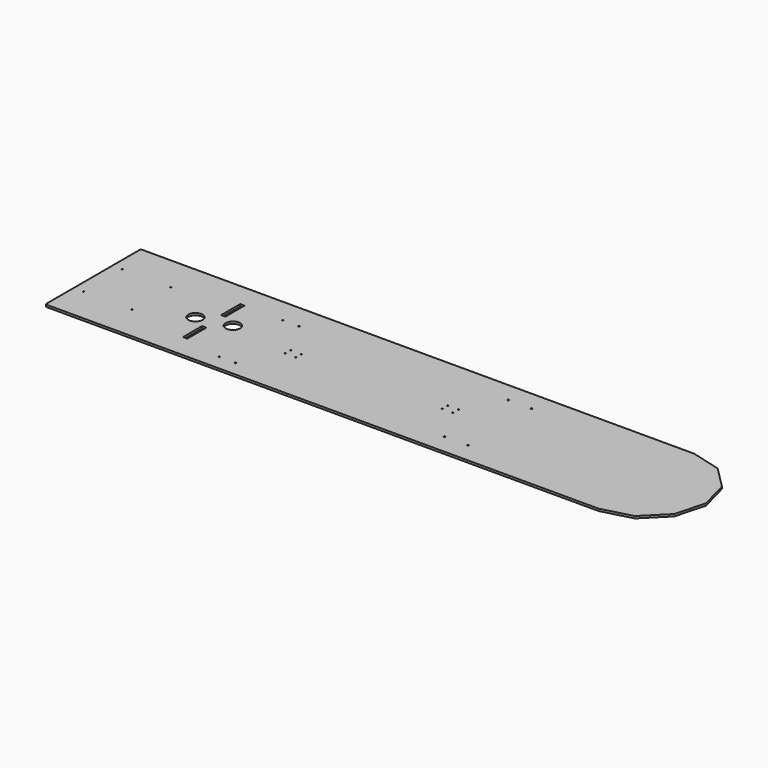
from build123d import *

# Parameters (mm, degrees)
F0_R     = 1.7272
F1_DEPTH = 6.35
F2_R     = 1.7272
F2_R_2   = 2.15265
F2_W     = 12.7
F2_H     = 71.12
F2_R_3   = 21.510772
F3_DEPTH = 6.35
F4_R     = 3.96875


with BuildPart() as f1:
    # F0 (on Top) → F1 (new body)
    with BuildSketch(Plane.XY):
        Polygon((88.9, 153.979317), (0, 177.8), (-1651, 177.8), (-1651, -177.8), (0, -177.8), (88.9, -153.979317), (153.979317, -88.9), (177.8, 0), (153.979317, 88.9), align=None)
        with Locations((-1621.63125, -72.23125)):
            Circle(F0_R, mode=Mode.SUBTRACT)
        with Locations((-1477.16875, -72.23125)):
            Circle(F0_R, mode=Mode.SUBTRACT)
        with Locations((-1621.63125, 72.23125)):
            Circle(F0_R, mode=Mode.SUBTRACT)
        with Locations((-1477.16875, 72.23125)):
            Circle(F0_R, mode=Mode.SUBTRACT)
    extrude(amount=F1_DEPTH)

    # F2 (on face) → F3 (cut, through all)
    with BuildSketch(Plane.XY.offset(6.35)):
        with Locations((-568.091641, -11.995942)):
            Circle(F2_R)
        with Locations((-599.841641, -11.995942)):
            Circle(F2_R)
        with Locations((-599.841641, 8.641558)):
            Circle(F2_R)
        with Locations((-568.091641, 8.641558)):
            Circle(F2_R)
        with Locations((-1028.355112, -1.491475)):
            Circle(F2_R)
        with Locations((-1028.355112, -22.128975)):
            Circle(F2_R)
        with Locations((-1060.105112, -22.128975)):
            Circle(F2_R)
        with Locations((-1060.105112, -1.491475)):
            Circle(F2_R)
        with Locations((-438.049884, 118.36762)):
            Circle(F2_R_2)
        with Locations((-507.785101, 118.367619)):
            Circle(F2_R_2)
        with Locations((-507.785101, -118.36762)):
            Circle(F2_R_2)
        with Locations((-438.049884, -118.36762)):
            Circle(F2_R_2)
        with Locations((-1169.146759, -131.855036)):
            Circle(F2_R_2)
        with Locations((-1120.411652, -131.855036)):
            Circle(F2_R_2)
        with Locations((-1169.146759, 104.880203)):
            Circle(F2_R_2)
        with Locations((-1120.411652, 104.880203)):
            Circle(F2_R_2)
        with Locations((-1290.943305, 71.12)):
            Rectangle(F2_W, F2_H)
        with Locations((-1290.943305, -71.12)):
            Rectangle(F2_W, F2_H)
        with Locations((-1337.209023, -10.512984)):
            Circle(F2_R_3)
        with Locations((-1242.325218, 10.627991)):
            Circle(F2_R_3)
    extrude(amount=-F3_DEPTH, mode=Mode.SUBTRACT)

    # F4
    f4_edges = [f1.edges().sort_by_distance(p)[0] for p in [
        (0, -177.8, 3.175),
        (88.9, -153.979317, 3.175),
        (153.979317, -88.9, 3.175),
        (177.8, 0, 3.175),
        (153.979317, 88.9, 3.175),
        (88.9, 153.979317, 3.175),
        (0, 177.8, 3.175),
        (-1651, 177.8, 3.175),
        (-1651, -177.8, 3.175),
    ]]
    fillet(f4_edges, radius=F4_R)


solid = f1.part
